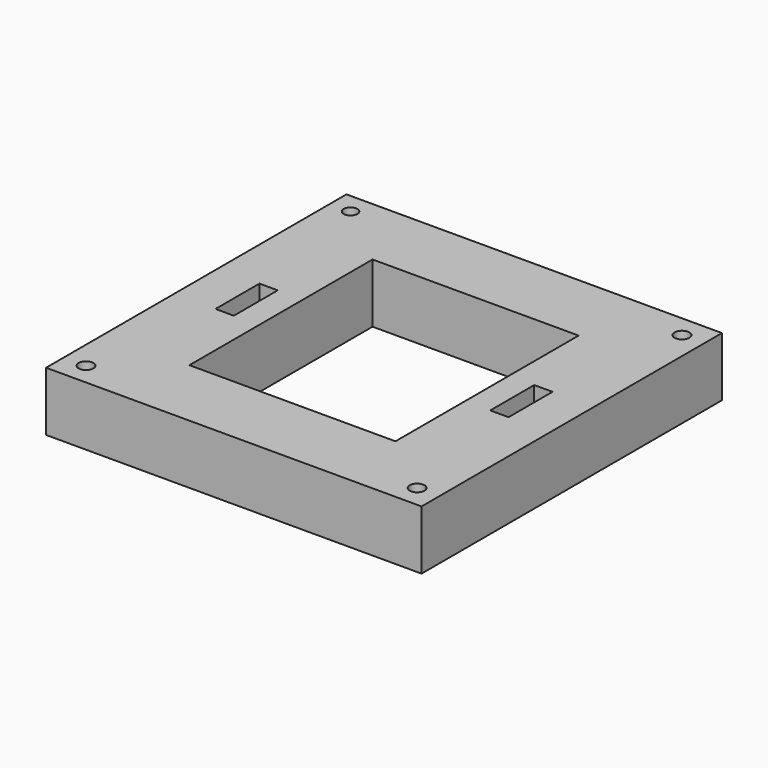
from build123d import *

# Parameters (mm, degrees)
F0_W     = 76.114866
F0_H     = 76.114866
F0_R     = 1.5
F0_W_2   = 3.712921
F0_H_2   = 11.138762
F0_W_3   = 41.770354
F0_H_3   = 46.411504
F0_R_2   = 1.392345
F1_DEPTH = 12


with BuildPart() as f1:
    # F0 (on Top) → F1 (new body)
    with BuildSketch(Plane.XY):
        Rectangle(F0_W, F0_H)
        with Locations((-33.557433, -33.557433)):
            Circle(F0_R, mode=Mode.SUBTRACT)
        with Locations((33.557433, -33.557433)):
            Circle(F0_R, mode=Mode.SUBTRACT)
        with Locations((-27.846902, 0)):
            Rectangle(F0_W_2, F0_H_2, mode=Mode.SUBTRACT)
        Rectangle(F0_W_3, F0_H_3, mode=Mode.SUBTRACT)
        with Locations((-33.880398, 33.880398)):
            Circle(F0_R_2, mode=Mode.SUBTRACT)
        with Locations((27.846902, 0)):
            Rectangle(F0_W_2, F0_H_2, mode=Mode.SUBTRACT)
        with Locations((33.557433, 33.557433)):
            Circle(F0_R, mode=Mode.SUBTRACT)
    extrude(amount=F1_DEPTH)


solid = f1.part
